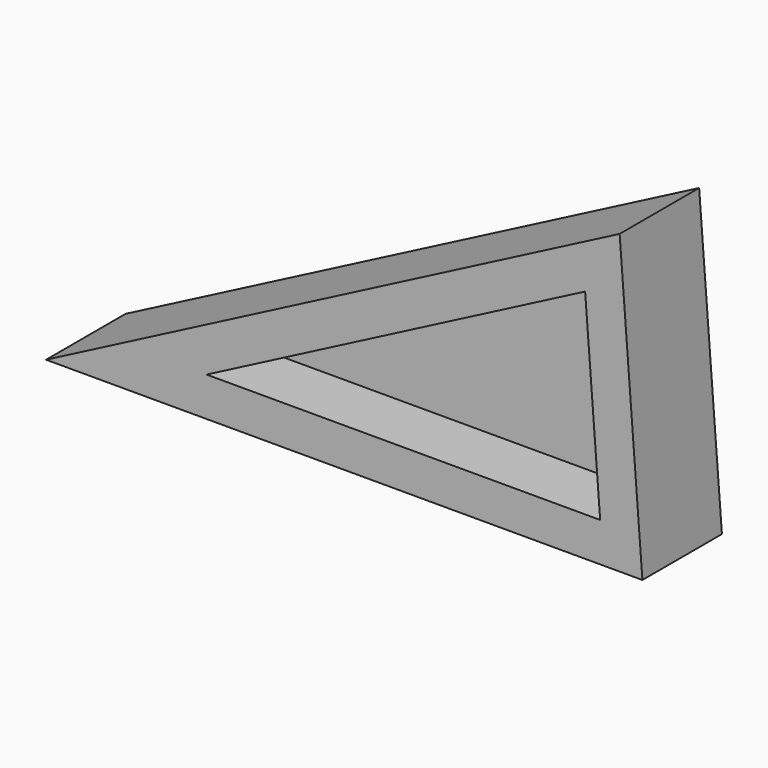
from build123d import *

# Parameters (mm, degrees)
F1_DEPTH = 50.8
F2_T     = -20


with BuildPart() as f1:
    # F0 (on Front) → F1 (new body)
    with BuildSketch(Plane.XZ):
        Polygon((-152.4, -87.988181), (152.4, -87.988181), (140.758333, 63.966521), align=None)
    extrude(amount=F1_DEPTH)

    # F2
    f2_openings = [f1.faces().sort_by_distance(p)[0] for p in [
        (46.919444, -50.8, -37.336614),
    ]]
    offset(amount=F2_T, openings=f2_openings)


solid = f1.part
